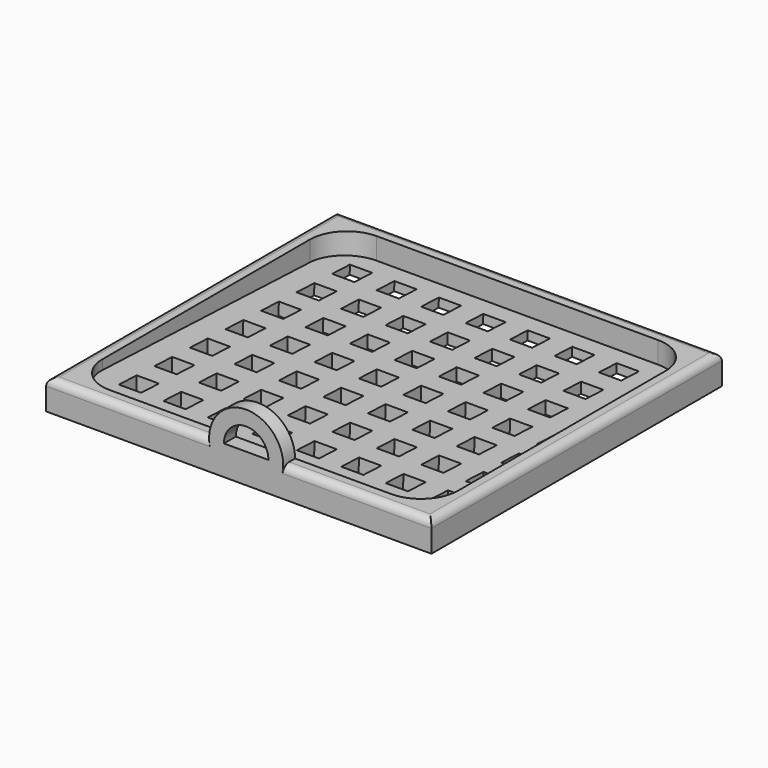
from build123d import *

# Parameters (mm, degrees)
F1_DEPTH = 4
F3_DEPTH = 51
F4_W     = 3
F4_H     = 3
F4_W_2   = 2.5
F5_DEPTH = 25
F7_DEPTH = 2
F8_R     = 1


with BuildPart() as f1:
    # F0 (on Top) → F1 (new body)
    with BuildSketch(Plane.XY):
        Polygon((25, -25), (25, 24), (-27, 24), (-27, -20.3703703704), (-27, -25), (13.0573605859, -25), align=None)
        with BuildLine():
            Line((10.1968558875, 22), (18, 22))
            ThreePointArc((18, 22), (19.5212077383, 21.7629745976), (20.898189526, 21.0743708068))
            ThreePointArc((20.898189526, 21.0743708068), (22.4435879439, 19.2922753292), (23, 17))
            Line((23, 17), (23, -18))
            ThreePointArc((23, -18), (21.5355339059, -21.5355339059), (18, -23))
            Line((18, -23), (16.6318695594, -23))
            Line((16.6318695594, -23), (15.1774683171, -23))
            Line((15.1774683171, -23), (10.1968558875, -23))
            Line((10.1968558875, -23), (8.3397783804, -23))
            Line((8.3397783804, -23), (6.6318695594, -23))
            Line((6.6318695594, -23), (5.1224489796, -23))
            Line((5.1224489796, -23), (0.2104889083, -23))
            Line((0.2104889083, -23), (-1.6602216196, -23))
            Line((-1.6602216196, -23), (-3.3681304406, -23))
            Line((-3.3681304406, -23), (-4.84, -23))
            Line((-4.84, -23), (-9.84, -23))
            Line((-9.84, -23), (-11.6602216196, -23))
            Line((-11.6602216196, -23), (-13.3681304406, -23))
            Line((-13.3681304406, -23), (-14.8775510204, -23))
            Line((-14.8775510204, -23), (-19.84, -23))
            Line((-19.84, -23), (-20, -23))
            ThreePointArc((-20, -23), (-21.8459522038, -22.6467688194), (-23.4310852571, -21.6369841846))
            ThreePointArc((-23.4310852571, -21.6369841846), (-24.5910470639, -19.9804764218), (-25, -18))
            Line((-25, -18), (-25, 17))
            ThreePointArc((-25, 17), (-23.5355339059, 20.5355339059), (-20, 22))
            Line((-20, 22), (-19.84, 22))
            Line((-19.84, 22), (-11.6602216196, 22))
            Line((-11.6602216196, 22), (-9.84, 22))
            Line((-9.84, 22), (-1.6602216196, 22))
            Line((-1.6602216196, 22), (0.2104889083, 22))
            Line((0.2104889083, 22), (8.3397783804, 22))
            Line((8.3397783804, 22), (10.1968558875, 22))
        make_face(mode=Mode.SUBTRACT)
    extrude(amount=F1_DEPTH)

    # F2 (on face) → F3 (join)
    with BuildSketch(Plane.YZ.offset(25)):
        Polygon((-25, 2.998127534), (-25, 0), (24, 0), (24, 1), align=None)
    extrude(amount=-F3_DEPTH)

    # F4 (on face) → F5 (cut)
    with BuildSketch(Plane(origin=(0, 0.0805526734, 1.9753899245), x_dir=(1, 0, 0), z_dir=(0, 0.0407442511, 0.9991696082))):
        with Locations((-20, 17.8153911698)):
            Rectangle(F4_W, F4_H)
        with Locations((-14, 17.8153911698)):
            Rectangle(F4_W, F4_H)
        with Locations((-8, 17.8153911698)):
            Rectangle(F4_W, F4_H)
        with Locations((-2, 17.8153911698)):
            Rectangle(F4_W, F4_H)
        with Locations((4, 17.8153911698)):
            Rectangle(F4_W, F4_H)
        with Locations((10, 17.8153911698)):
            Rectangle(F4_W, F4_H)
        with Locations((16, 17.8153911698)):
            Rectangle(F4_W, F4_H)
        with BuildLine():
            add(Edge.make_bspline(
                [(23, 16.8809274802), (23, 18.1800228593), (22.3698420023, 19.3153911698)],
                knots=[4.7123889804, 4.7123889804, 4.7123889804, 5.2198762675, 5.2198762675, 5.2198762675], degree=2, weights=[1, 0.9679794421, 1]))
            Line((22.3698420023, 19.3153911698), (20.5, 19.3153911698))
            Line((20.5, 19.3153911698), (20.5, 16.3153911698))
            Line((20.5, 16.3153911698), (23, 16.3153911698))
            Line((23, 16.3153911698), (23, 16.8809274802))
        make_face()
        with Locations((21.75, 11.8153911698)):
            Rectangle(F4_W_2, F4_H)
        with Locations((16, 11.8153911698)):
            Rectangle(F4_W, F4_H)
        with Locations((10, 11.8153911698)):
            Rectangle(F4_W, F4_H)
        with Locations((4, 11.8153911698)):
            Rectangle(F4_W, F4_H)
        with Locations((-2, 11.8153911698)):
            Rectangle(F4_W, F4_H)
        with Locations((-8, 11.8153911698)):
            Rectangle(F4_W, F4_H)
        with Locations((-14, 11.8153911698)):
            Rectangle(F4_W, F4_H)
        with Locations((-20, 11.8153911698)):
            Rectangle(F4_W, F4_H)
        with Locations((-20, 5.8153911698)):
            Rectangle(F4_W, F4_H)
        with Locations((-14, 5.8153911698)):
            Rectangle(F4_W, F4_H)
        with Locations((-8, 5.8153911698)):
            Rectangle(F4_W, F4_H)
        with Locations((-2, 5.8153911698)):
            Rectangle(F4_W, F4_H)
        with Locations((4, 5.8153911698)):
            Rectangle(F4_W, F4_H)
        with Locations((10, 5.8153911698)):
            Rectangle(F4_W, F4_H)
        with Locations((16, 5.8153911698)):
            Rectangle(F4_W, F4_H)
        with Locations((21.75, 5.8153911698)):
            Rectangle(F4_W_2, F4_H)
        with Locations((21.75, -0.1846088302)):
            Rectangle(F4_W_2, F4_H)
        with Locations((16, -0.1846088302)):
            Rectangle(F4_W, F4_H)
        with Locations((10, -0.1846088302)):
            Rectangle(F4_W, F4_H)
        with Locations((4, -0.1846088302)):
            Rectangle(F4_W, F4_H)
        with Locations((-2, -0.1846088302)):
            Rectangle(F4_W, F4_H)
        with Locations((-8, -0.1846088302)):
            Rectangle(F4_W, F4_H)
        with Locations((-14, -0.1846088302)):
            Rectangle(F4_W, F4_H)
        with Locations((-20, -0.1846088302)):
            Rectangle(F4_W, F4_H)
        with Locations((-20, -6.1846088302)):
            Rectangle(F4_W, F4_H)
        with Locations((-14, -6.1846088302)):
            Rectangle(F4_W, F4_H)
        with Locations((-8, -6.1846088302)):
            Rectangle(F4_W, F4_H)
        with Locations((-2, -6.1846088302)):
            Rectangle(F4_W, F4_H)
        with Locations((4, -6.1846088302)):
            Rectangle(F4_W, F4_H)
        with Locations((10, -6.1846088302)):
            Rectangle(F4_W, F4_H)
        with Locations((16, -6.1846088302)):
            Rectangle(F4_W, F4_H)
        with Locations((21.75, -6.1846088302)):
            Rectangle(F4_W_2, F4_H)
        with Locations((21.75, -12.1846088302)):
            Rectangle(F4_W_2, F4_H)
        with BuildLine():
            Line((20.5, -19.6846088302), (22.7412209671, -19.6846088302))
            add(Edge.make_bspline(
                [(22.7412209671, -19.6846088302), (23, -18.9112005346), (23, -18.0955790935)],
                knots=[4.3732170685, 4.3732170685, 4.3732170685, 4.7123889804, 4.7123889804, 4.7123889804], degree=2, weights=[0.9008260234, 0.9367574578, 1]))
            Line((23, -18.0955790935), (23, -16.6846088302))
            Line((23, -16.6846088302), (20.5, -16.6846088302))
            Line((20.5, -16.6846088302), (20.5, -19.6846088302))
        make_face()
        with Locations((16, -12.1846088302)):
            Rectangle(F4_W, F4_H)
        with Locations((16, -18.1846088302)):
            Rectangle(F4_W, F4_H)
        with Locations((10, -18.1846088302)):
            Rectangle(F4_W, F4_H)
        with Locations((10, -12.1846088302)):
            Rectangle(F4_W, F4_H)
        with Locations((4, -12.1846088302)):
            Rectangle(F4_W, F4_H)
        with Locations((4, -18.1846088302)):
            Rectangle(F4_W, F4_H)
        with Locations((-2, -18.1846088302)):
            Rectangle(F4_W, F4_H)
        with Locations((-2, -12.1846088302)):
            Rectangle(F4_W, F4_H)
        with Locations((-8, -12.1846088302)):
            Rectangle(F4_W, F4_H)
        with Locations((-8, -18.1846088302)):
            Rectangle(F4_W, F4_H)
        with Locations((-14, -18.1846088302)):
            Rectangle(F4_W, F4_H)
        with Locations((-14, -12.1846088302)):
            Rectangle(F4_W, F4_H)
        with Locations((-20, -12.1846088302)):
            Rectangle(F4_W, F4_H)
        with Locations((-20, -18.1846088302)):
            Rectangle(F4_W, F4_H)
    extrude(amount=-F5_DEPTH, mode=Mode.SUBTRACT)

    # F6 (on face) → F7 (join)
    with BuildSketch(Plane.XZ.offset(25)):
        with BuildLine():
            Line((3.0000002161, 4), (5, 4))
            ThreePointArc((5, 4), (0, 9), (-5, 4))
            Line((-5, 4), (-3.0000002161, 4))
            ThreePointArc((-3.0000002161, 4), (0, 7.0000002161), (3.0000002161, 4))
        make_face()
    extrude(amount=-F7_DEPTH)

    # F8
    f8_edges = [f1.edges().sort_by_distance(p)[0] for p in [
        (-1, 24, 4),
        (25, -0.5, 4),
        (15, -25, 4),
        (-16, -25, 4),
        (-27, -0.5, 4),
    ]]
    fillet(f8_edges, radius=F8_R)


solid = f1.part
